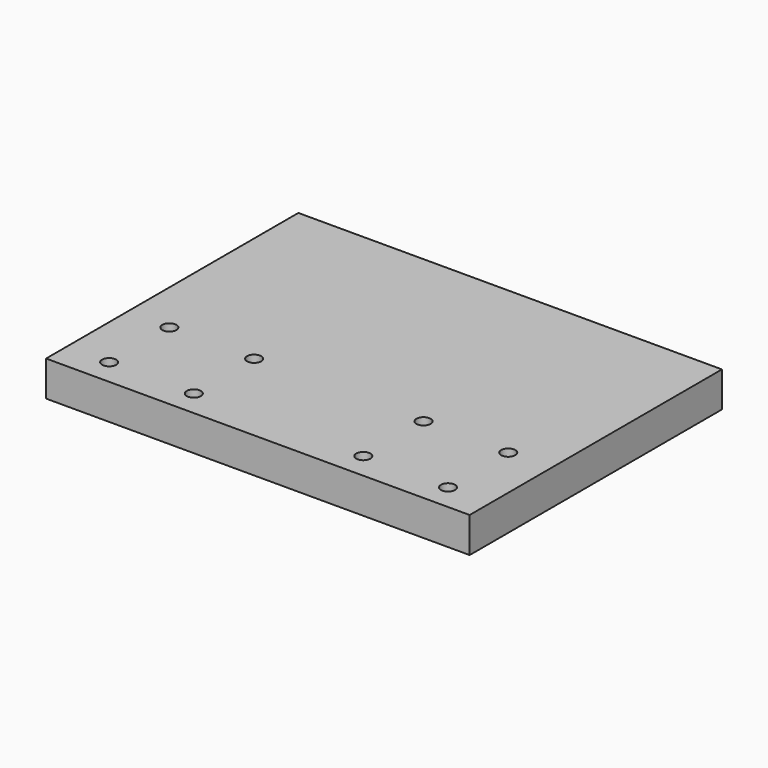
from build123d import *

# Parameters (mm, degrees)
F0_W     = 129
F0_H     = 15
F1_DEPTH = 170
F3_D     = 6
F5_D     = 4.2
F5_DEPTH = 15
F5_TIP   = 1.2618073
F6_DEPTH = 5
F7_DEPTH = 5
F8_DEPTH = 5


with BuildPart() as f1:
    # F0 (on Right) → F1 (new body)
    with BuildSketch(Plane.YZ):
        with Locations((64.5, 7.5)):
            Rectangle(F0_W, F0_H)
        with Locations((64.5, 7.5)):
            Rectangle(F0_W, F0_H)
    extrude(amount=F1_DEPTH)

    # F3 (through all)
    with Locations(Plane(origin=(0, 0, 0), x_dir=(1, 0, 0), z_dir=(0, 0, -1))):
        with Locations((13, -6), (13, -38), (49, -6), (49, -38), (121, -38), (121, -6), (157, -6), (157, -38)):
            Hole(F3_D / 2)

    # F5
    with Locations(Plane(origin=(0, 129, 0), x_dir=(-1, 0, 0), z_dir=(0, 1, 0))):
        with Locations((-151, 7.5), (-85, 7.5), (-118, 7.5), (-52, 7.5), (-19, 7.5)):
            Hole(F5_D / 2, depth=F5_DEPTH)
            with Locations((0, 0, -(F5_DEPTH + F5_TIP / 2))):  # 118° drill point
                Cone(0, F5_D / 2, F5_TIP, mode=Mode.SUBTRACT)

    # F6 (add): a face of the model
    f6_faces = [f1.faces().sort_by_distance(p)[0] for p in [
        (170, 64.5, 7.5),
    ]]
    extrude(f6_faces, amount=F6_DEPTH)

    # F7 (add): a face of the model
    f7_faces = [f1.faces().sort_by_distance(p)[0] for p in [
        (0, 64.5, 7.5),
    ]]
    extrude(f7_faces, amount=F7_DEPTH)

    # F8 (add): a face of the model
    f8_faces = [f1.faces().sort_by_distance(p)[0] for p in [
        (85, 0, 7.5),
    ]]
    extrude(f8_faces, amount=F8_DEPTH)


solid = f1.part
